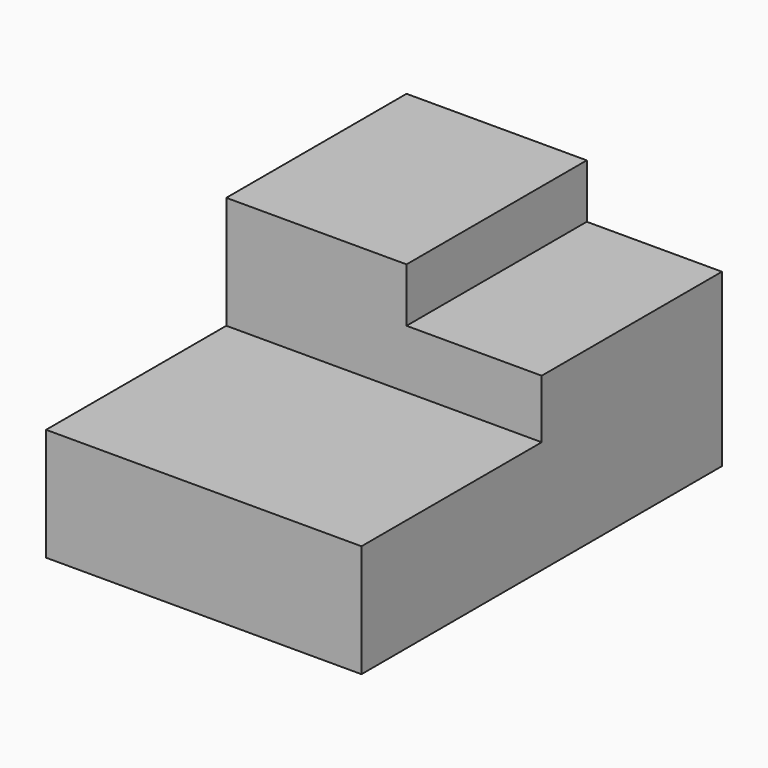
from build123d import *

# Parameters (mm, degrees)
F1_DEPTH = 1778
F2_W     = 1016
F2_H     = 1270
F3_DEPTH = 304.8


with BuildPart() as f1:
    # F0 (on Right) → F1 (new body)
    with BuildSketch(Plane.YZ):
        Polygon((-54.361407, 581.54651), (-54.361407, -53.45349), (2485.638593, -53.45349), (2485.638593, 911.74651), (1215.638593, 911.74651), (1215.638593, 581.54651), align=None)
    extrude(amount=-F1_DEPTH)

    # F2 (on face) → F3 (join)
    with BuildSketch(Plane.XY.offset(911.74651)):
        with Locations((-1270, 1850.638593)):
            Rectangle(F2_W, F2_H)
    extrude(amount=F3_DEPTH)


solid = f1.part
